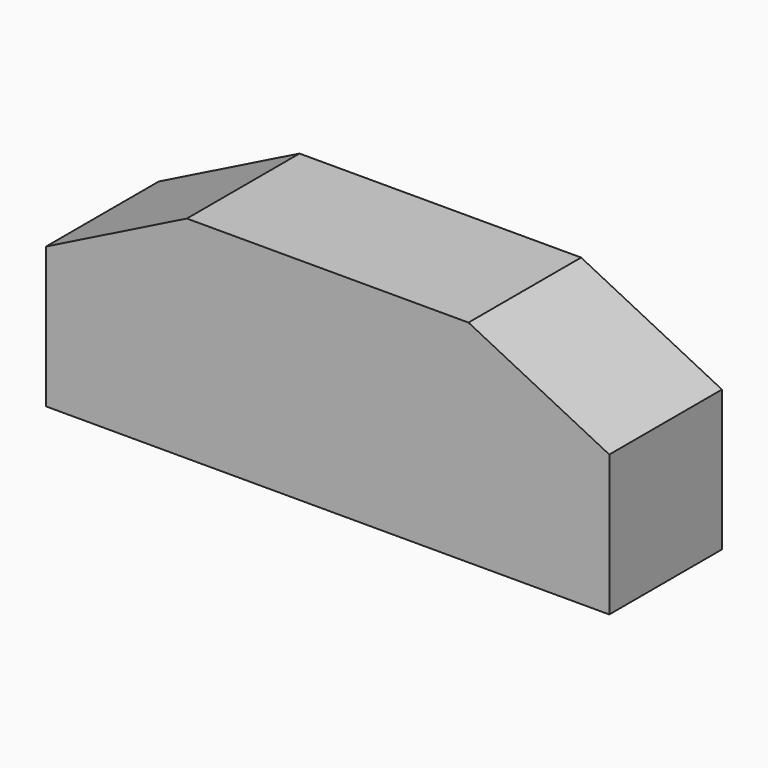
from build123d import *

# Parameters (mm, degrees)
F0_W     = 50.8
F0_H     = 12.7
F1_DEPTH = 25.4


with BuildPart() as f1:
    # F0 (on Front) → F1 (new body)
    with BuildSketch(Plane.XZ):
        Polygon((-50.8, -12.7), (50.8, -12.7), (50.8, 12.7), (25.4, 12.7), (-25.4, 12.7), (-50.8, 12.7), align=None)
        Polygon((25.4, 12.7), (50.8, 12.7), (25.4, 25.4), align=None)
        Polygon((-25.4, 25.4), (-50.8, 12.7), (-25.4, 12.7), align=None)
        with Locations((0, 19.05)):
            Rectangle(F0_W, F0_H)
    extrude(amount=F1_DEPTH)


solid = f1.part
